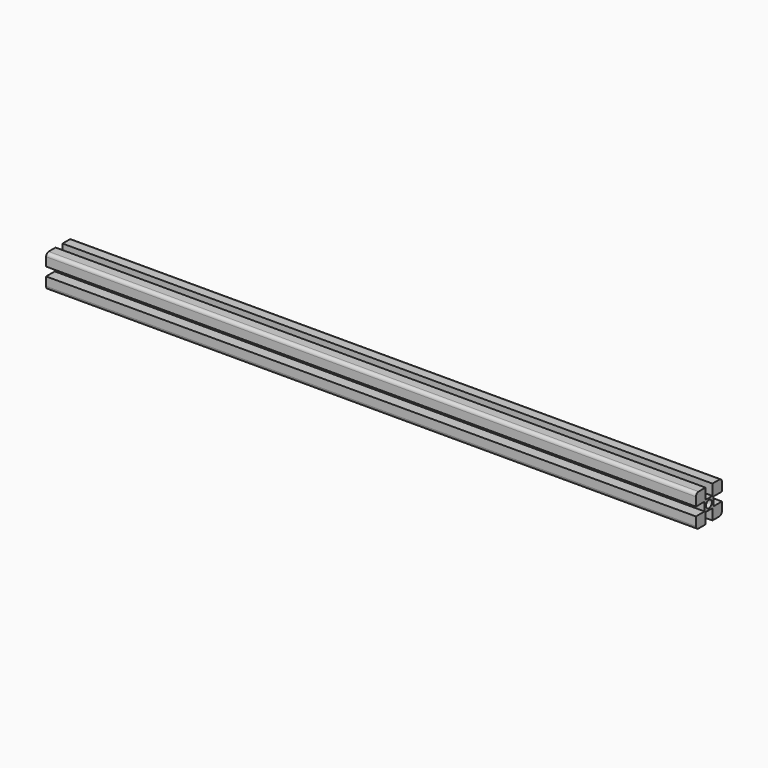
from build123d import *

# Parameters (mm, degrees)
F1_DEPTH = 300
F2_R     = 3.4
F3_DEPTH = 600
F4_R     = 3


with BuildPart() as f1:
    # F0 (on Right) → F1 (new body, symmetric)
    with BuildSketch(Plane.YZ):
        Polygon((15, 4), (15, 15), (4, 15), (4, 5), (-4, 5), (-4, 15), (-15, 15), (-15, 4), (-5, 4), (-5, -4), (-15, -4), (-15, -15), (-4, -15), (-4, -5), (4, -5), (4, -15), (15, -15), (15, -4), (5, -4), (5, 4), align=None)
    extrude(amount=F1_DEPTH, both=True)

    # F2 (on face) → F3 (cut)
    with BuildSketch(Plane.YZ.offset(300)):
        Circle(F2_R)
    extrude(amount=-F3_DEPTH, mode=Mode.SUBTRACT)

    # F4
    f4_edges = [f1.edges().sort_by_distance(p)[0] for p in [
        (0, 15, -15),
        (0, 15, 15),
        (0, -15, -15),
        (0, -15, 15),
    ]]
    fillet(f4_edges, radius=F4_R)


solid = f1.part
